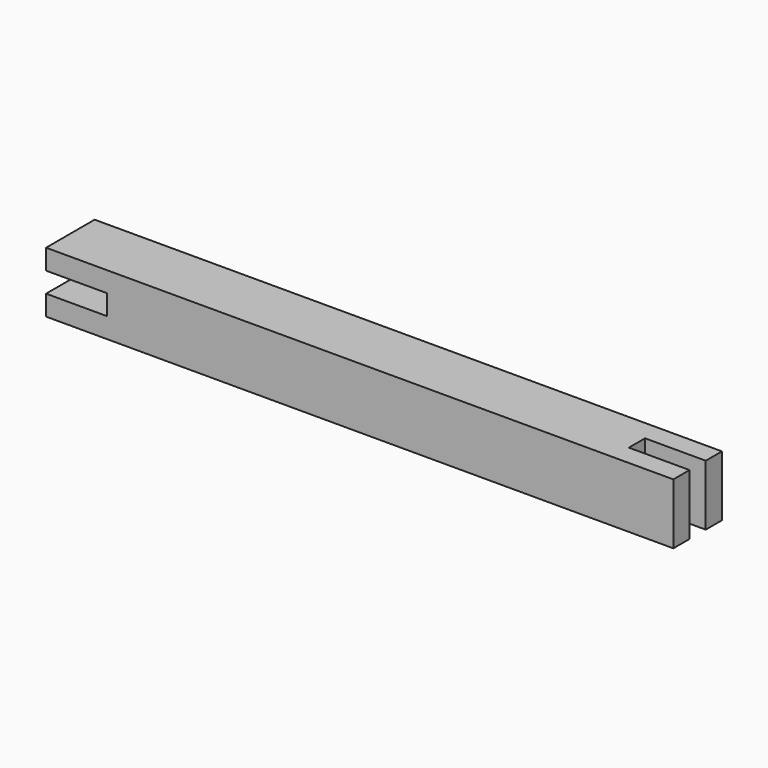
from build123d import *

# Parameters (mm, degrees)
F1_DEPTH = 38.1
F2_W     = 38.1
F2_H     = 12.7
F3_DEPTH = 38.1


with BuildPart() as f1:
    # F0 (on Front) → F1 (new body)
    with BuildSketch(Plane.XZ):
        Polygon((393.7, 0), (0, 0), (0, -12.7), (38.1, -12.7), (38.1, -25.4), (0, -25.4), (0, -38.1), (393.7, -38.1), align=None)
    extrude(amount=F1_DEPTH)

    # F2 (on face) → F3 (cut)
    with BuildSketch(Plane.XY):
        with Locations((374.65, -19.05)):
            Rectangle(F2_W, F2_H)
    extrude(amount=-F3_DEPTH, mode=Mode.SUBTRACT)


solid = f1.part
